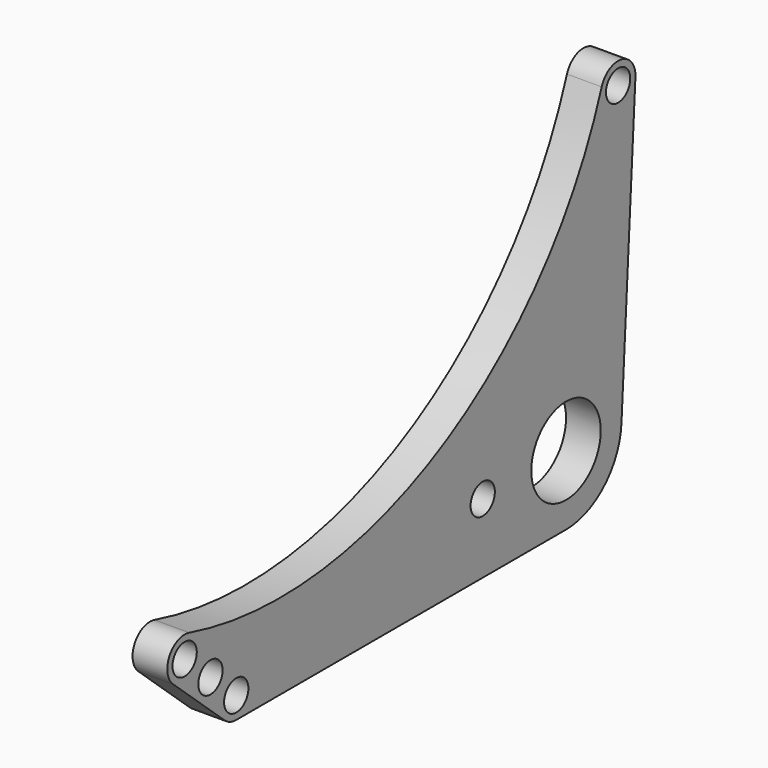
from build123d import *

# Parameters (mm, degrees)
F0_R     = 5.55625
F0_R_2   = 15.875
F1_DEPTH = 12.7


with BuildPart() as f1:
    # F0 (on Right) → F1 (new body)
    with BuildSketch(Plane.YZ):
        with BuildLine():
            Line((-150.8125, -25.4), (0, -25.4))
            ThreePointArc((0, -25.4), (17.427746, -18.477923), (25.35658, -1.48454))
            Line((25.35658, -1.48454), (31.736431, 107.486081))
            ThreePointArc((31.736431, 107.486081), (25.355158, 115.736149), (16.31029, 110.54244))
            ThreePointArc((16.31029, 110.54244), (-58.360854, 23.637711), (-172.287236, 11.431516))
            ThreePointArc((-172.287236, 11.431516), (-181.366639, 7.599748), (-179.718572, -2.116315))
            Line((-179.718572, -2.116315), (-156.123724, -23.361212))
            ThreePointArc((-156.123724, -23.361212), (-153.657046, -24.872795), (-150.8125, -25.4))
        make_face()
        with Locations((-150.8125, -17.4625)):
            Circle(F0_R, mode=Mode.SUBTRACT)
        with Locations((-162.609924, -6.840052)):
            Circle(F0_R, mode=Mode.SUBTRACT)
        with Locations((-174.407348, 3.782397)):
            Circle(F0_R, mode=Mode.SUBTRACT)
        with Locations((-38.1, 0)):
            Circle(F0_R, mode=Mode.SUBTRACT)
        Circle(F0_R_2, mode=Mode.SUBTRACT)
        with Locations((23.8125, 107.95)):
            Circle(F0_R, mode=Mode.SUBTRACT)
    extrude(amount=F1_DEPTH)


solid = f1.part
